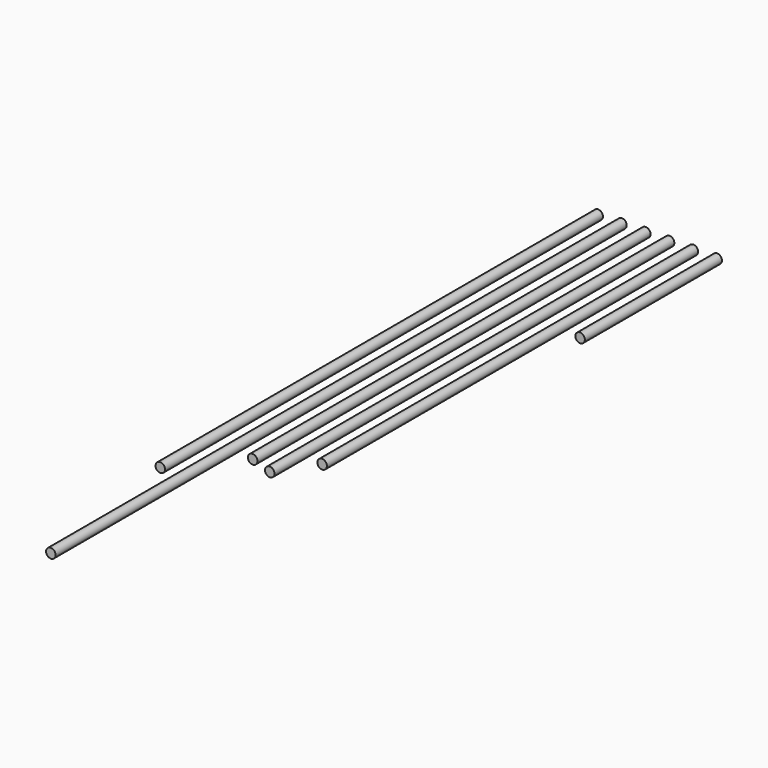
from build123d import *

# Parameters (mm, degrees)
F0_R     = 4
F1_DEPTH = 420
F2_DEPTH = 390
F3_DEPTH = 413
F4_DEPTH = 600
F5_DEPTH = 460
F6_DEPTH = 144


with BuildPart() as f1:
    # F0 (on Front) → F1 (new body)
    with BuildSketch(Plane.XZ):
        Circle(F0_R)
    extrude(amount=F1_DEPTH)


with BuildPart() as f2:
    # F0 (on Front) → F2 (new body)
    with BuildSketch(Plane.XZ):
        with Locations((20, 0)):
            Circle(F0_R)
    extrude(amount=F2_DEPTH)


with BuildPart() as f3:
    # F0 (on Front) → F3 (new body)
    with BuildSketch(Plane.XZ):
        with Locations((-20, 0)):
            Circle(F0_R)
    extrude(amount=F3_DEPTH)


with BuildPart() as f4:
    # F0 (on Front) → F4 (new body)
    with BuildSketch(Plane.XZ):
        with Locations((-40, 0)):
            Circle(F0_R)
    extrude(amount=F4_DEPTH)


with BuildPart() as f5:
    # F0 (on Front) → F5 (new body)
    with BuildSketch(Plane.XZ):
        with Locations((-60, 0)):
            Circle(F0_R)
    extrude(amount=F5_DEPTH)


with BuildPart() as f6:
    # F0 (on Front) → F6 (new body)
    with BuildSketch(Plane.XZ):
        with Locations((40, 0)):
            Circle(F0_R)
    extrude(amount=F6_DEPTH)


solid = Compound([f1.part, f2.part, f3.part, f4.part, f5.part, f6.part])
